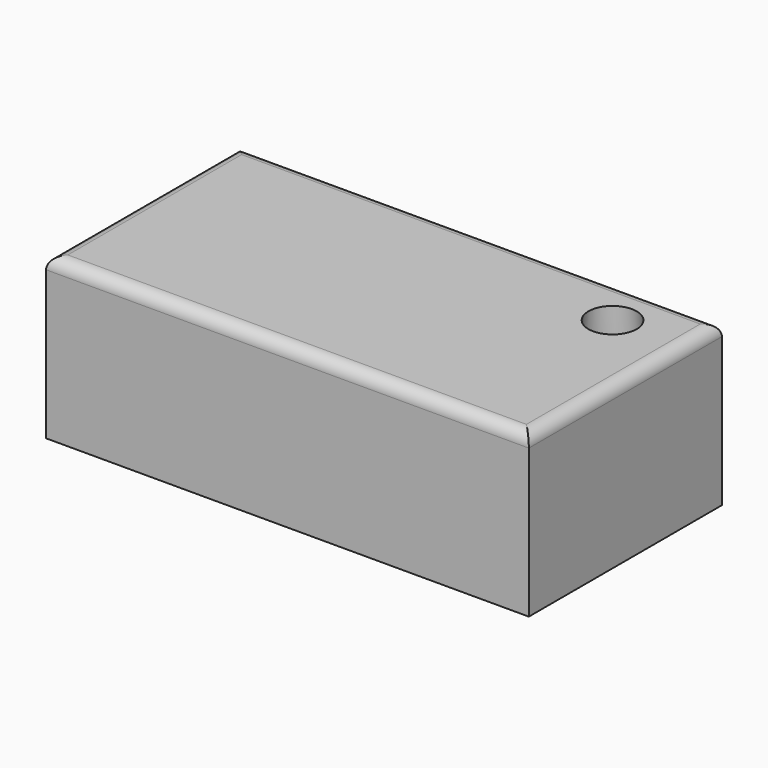
from build123d import *

# Parameters (mm, degrees)
F0_W     = 200
F0_H     = 100
F1_DEPTH = 66.47978
F2_R     = 10
F3_DEPTH = 66.48078
F3_TAPER = -3
F4_R     = 5


with BuildPart() as f1:
    # F0 (on Top) → F1 (new body)
    with BuildSketch(Plane.XY):
        with Locations((100, 50)):
            Rectangle(F0_W, F0_H)
    extrude(amount=F1_DEPTH)

    # F2 (on face) → F3 (cut, through all)
    with BuildSketch(Plane.XY.offset(66.47978)):
        with Locations((171.1803972721, 79.3884024024)):
            Circle(F2_R)
    extrude(amount=-F3_DEPTH, taper=F3_TAPER, mode=Mode.SUBTRACT)

    # F4
    f4_edges = [f1.edges().sort_by_distance(p)[0] for p in [
        (100, 100, 66.47978),
        (100, 0, 66.47978),
        (200, 50, 66.47978),
        (0, 50, 66.47978),
    ]]
    fillet(f4_edges, radius=F4_R)


solid = f1.part
